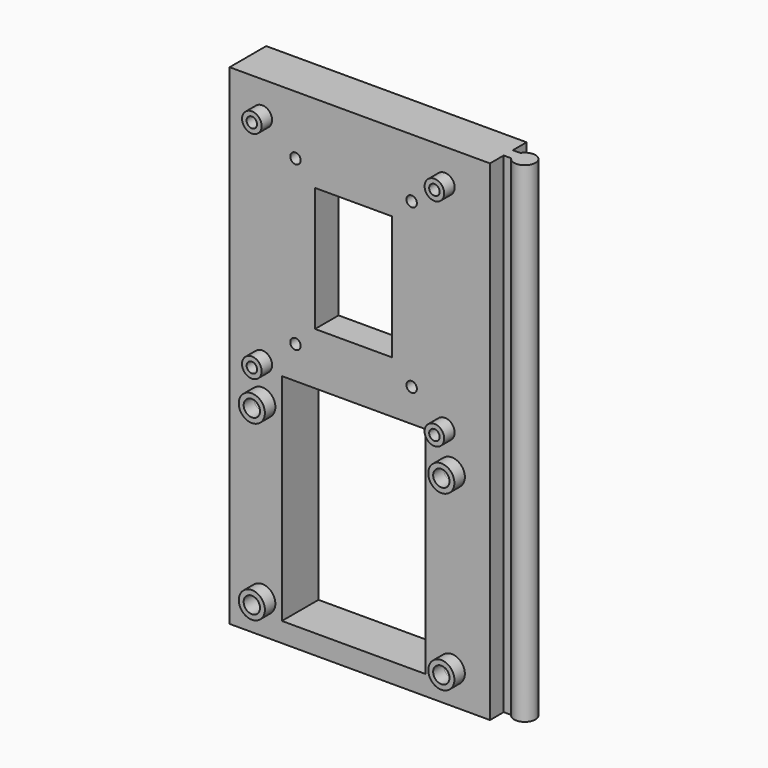
from build123d import *

# Parameters (mm, degrees)
SKETCH003_W     = 45
SKETCH003_H     = 75
PAD001_DEPTH    = 7
SKETCH004_R     = 0.8
SKETCH004_R_2   = 1.25
POCKET_DEPTH    = 7
POCKET002_DEPTH = 75
SKETCH007_R     = 2
SKETCH007_R_2   = 1.25
SKETCH007_R_3   = 1.5
SKETCH007_R_4   = 0.8
PAD002_DEPTH    = 2
SKETCH008_W     = 25
SKETCH008_H     = 30
SKETCH008_R     = 1.5
POCKET003_DEPTH = 2.5
FILLET_R        = 2
SKETCH009_W     = 11.78
SKETCH009_H     = 19
SKETCH009_W_2   = 21.94
SKETCH009_H_2   = 32.99
POCKET004_DEPTH = 7


with BuildPart() as part:
    # Sketch003 → Pad001 (new body)
    with BuildSketch(Plane.XZ):
        with Locations((32.5, 40)):
            Rectangle(SKETCH003_W, SKETCH003_H)
    extrude(amount=PAD001_DEPTH)

    # Sketch004 (on Face6 of Pad001) → Pocket (cut)
    with BuildSketch(Plane.XZ.offset(7)):
        with Locations((15, 39.48)):
            Circle(SKETCH004_R)
        with Locations((15, 72.5)):
            Circle(SKETCH004_R)
        with Locations((42.94, 39.48)):
            Circle(SKETCH004_R)
        with Locations((42.94, 72.5)):
            Circle(SKETCH004_R)
        with Locations((20.08, 43.49)):
            Circle(SKETCH004_R)
        with Locations((20.08, 68.49)):
            Circle(SKETCH004_R)
        with Locations((37.86, 68.49)):
            Circle(SKETCH004_R)
        with Locations((37.86, 43.49)):
            Circle(SKETCH004_R)
        with Locations((15, 7.5)):
            Circle(SKETCH004_R_2)
        with Locations((15, 34)):
            Circle(SKETCH004_R_2)
        with Locations((44, 34)):
            Circle(SKETCH004_R_2)
        with Locations((44, 7.5)):
            Circle(SKETCH004_R_2)
    extrude(amount=-POCKET_DEPTH, mode=Mode.SUBTRACT)

    # Sketch006 (on Face6 of Pocket) → Pocket002 (cut)
    with BuildSketch(Plane(origin=(0, 0, 2.5), x_dir=(1, 0, 0), z_dir=(0, 0, -1))):
        with BuildLine():
            Line((50.994764, 2.625), (49.844764, 2.625))
            Line((49.844764, 2.625), (49.844764, 0))
            Line((49.844764, 0), (55, 0))
            Line((55, 0), (55, 7))
            Line((49.844764, 7), (55, 7))
            Line((49.844764, 4.375), (49.844764, 7))
            Line((49.844764, 4.375), (50.994764, 4.375))
            ThreePointArc((50.994764, 2.625), (54, 3.5), (50.994764, 4.375))
        make_face()
    extrude(amount=-POCKET002_DEPTH, mode=Mode.SUBTRACT)

    # Sketch007 (on Face8 of Pocket002) → Pad002 (join)
    with BuildSketch(Plane.XZ.offset(7)):
        with Locations((15, 7.5)):
            Circle(SKETCH007_R)
        with Locations((15, 7.5)):
            Circle(SKETCH007_R_2, mode=Mode.SUBTRACT)
        with Locations((15, 34)):
            Circle(SKETCH007_R)
        with Locations((15, 34)):
            Circle(SKETCH007_R_2, mode=Mode.SUBTRACT)
        with Locations((44, 7.5)):
            Circle(SKETCH007_R)
        with Locations((44, 7.5)):
            Circle(SKETCH007_R_2, mode=Mode.SUBTRACT)
        with Locations((44, 34)):
            Circle(SKETCH007_R)
        with Locations((44, 34)):
            Circle(SKETCH007_R_2, mode=Mode.SUBTRACT)
        with Locations((15, 39.48)):
            Circle(SKETCH007_R_3)
        with Locations((15, 39.48)):
            Circle(SKETCH007_R_4, mode=Mode.SUBTRACT)
        with Locations((15, 72.5)):
            Circle(SKETCH007_R_3)
        with Locations((15, 72.5)):
            Circle(SKETCH007_R_4, mode=Mode.SUBTRACT)
        with Locations((42.94, 39.48)):
            Circle(SKETCH007_R_3)
        with Locations((42.94, 39.48)):
            Circle(SKETCH007_R_4, mode=Mode.SUBTRACT)
        with Locations((42.94, 72.5)):
            Circle(SKETCH007_R_3)
        with Locations((42.94, 72.5)):
            Circle(SKETCH007_R_4, mode=Mode.SUBTRACT)
    extrude(amount=PAD002_DEPTH)

    # Sketch008 (on Face2 of Pad002) → Pocket003 (cut)
    with BuildSketch(Plane(origin=(0, 0, 0), x_dir=(1, 0, 0), z_dir=(0, 1, 0))):
        with Locations((28.97, -55.99)):
            Rectangle(SKETCH008_W, SKETCH008_H)
        with Locations((20.08, -43.49)):
            Circle(SKETCH008_R, mode=Mode.SUBTRACT)
        with Locations((37.86, -43.49)):
            Circle(SKETCH008_R, mode=Mode.SUBTRACT)
        with Locations((20.08, -68.49)):
            Circle(SKETCH008_R, mode=Mode.SUBTRACT)
        with Locations((37.86, -68.49)):
            Circle(SKETCH008_R, mode=Mode.SUBTRACT)
    extrude(amount=-POCKET003_DEPTH, mode=Mode.SUBTRACT)

    # Fillet
    fillet_edges = [part.edges().sort_by_distance(p)[0] for p in [
        (16.47, -1.25, 40.99),
        (41.47, -1.25, 40.99),
        (41.47, -1.25, 70.99),
        (16.47, -1.25, 70.99),
    ]]
    fillet(fillet_edges, radius=FILLET_R)

    # Sketch009 (on Face23 of Fillet) → Pocket004 (cut)
    with BuildSketch(Plane.XZ.offset(7)):
        with Locations((28.97, 55.99)):
            Rectangle(SKETCH009_W, SKETCH009_H)
        with Locations((28.97, 21.995)):
            Rectangle(SKETCH009_W_2, SKETCH009_H_2)
    extrude(amount=-POCKET004_DEPTH, mode=Mode.SUBTRACT)


solid = part.part
